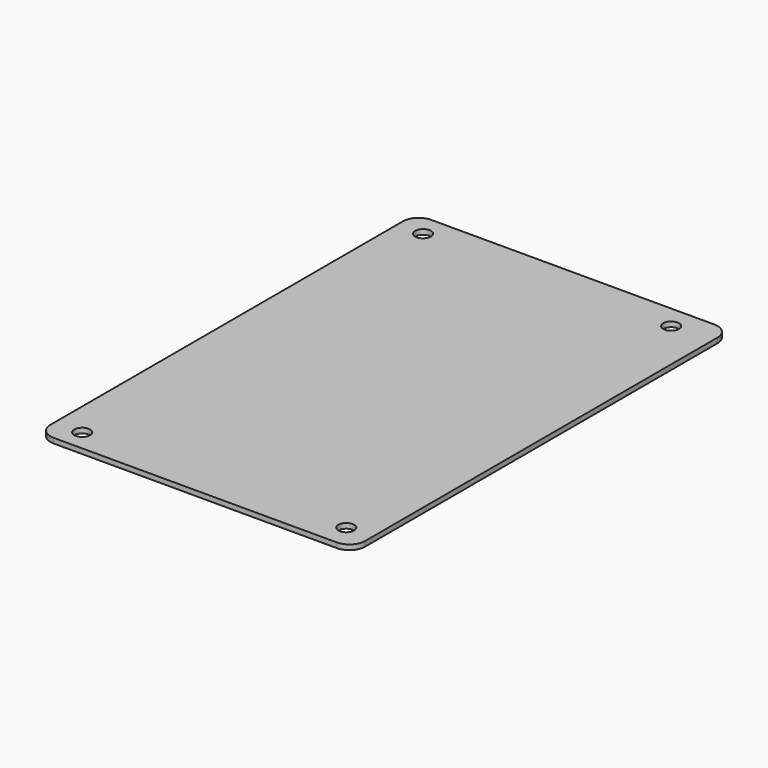
from build123d import *

# Parameters (mm, degrees)
F0_W     = 100
F0_H     = 150
F0_R     = 2.5
F1_DEPTH = 1.6
F2_R     = 5


with BuildPart() as f1:
    # F0 (on Top) → F1 (new body)
    with BuildSketch(Plane.XY):
        Rectangle(F0_W, F0_H)
        with Locations((-41.291561, -68.272956)):
            Circle(F0_R, mode=Mode.SUBTRACT)
        with Locations((41.876484, -67.331433)):
            Circle(F0_R, mode=Mode.SUBTRACT)
        with Locations((-41.919243, 67.934334)):
            Circle(F0_R, mode=Mode.SUBTRACT)
        with Locations((37.16886, 67.620493)):
            Circle(F0_R, mode=Mode.SUBTRACT)
    extrude(amount=F1_DEPTH)

    # F2
    f2_edges = [f1.edges().sort_by_distance(p)[0] for p in [
        (-50, 75, 0.8),
        (-50, -75, 0.8),
        (50, -75, 0.8),
        (50, 75, 0.8),
    ]]
    fillet(f2_edges, radius=F2_R)


solid = f1.part
